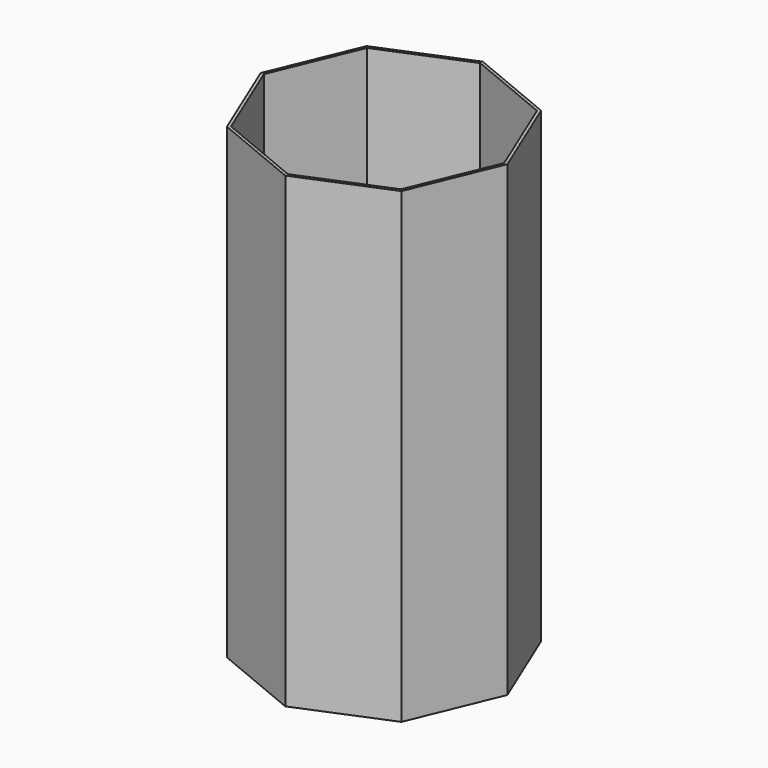
from build123d import *

# Parameters (mm, degrees)
F1_DEPTH = 152.4


with BuildPart() as f1:
    # F0 (on Top) → F1 (new body, symmetric)
    with BuildSketch(Plane.XY):
        Polygon((56.915772, -56.915772), (80.491057, 0), (56.915772, 56.915772), (0, 80.491057), (-56.915772, 56.915772), (-80.491057, 0), (-56.915772, -56.915772), (0, -80.491057), align=None)
        Polygon((-55.457748, -55.457748), (-78.4291, 0), (-55.457748, 55.457748), (0, 78.4291), (55.457748, 55.457748), (78.4291, 0), (55.457748, -55.457748), (0, -78.4291), align=None, mode=Mode.SUBTRACT)
    extrude(amount=F1_DEPTH, both=True)


solid = f1.part
